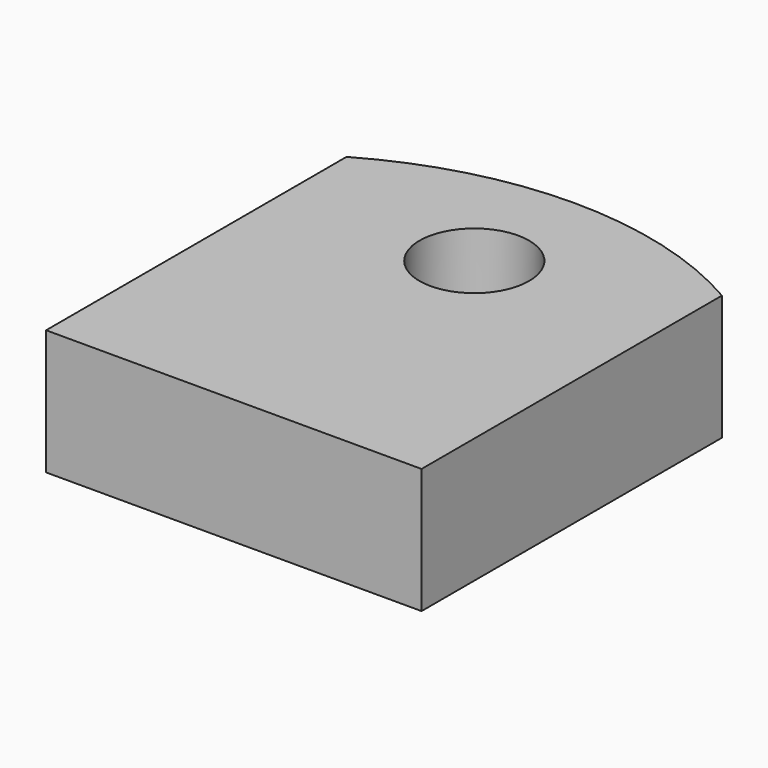
from build123d import *

# Parameters (mm, degrees)
F0_R     = 11.1125
F1_DEPTH = 25.4


with BuildPart() as f1:
    # F0 (on Top) → F1 (new body)
    with BuildSketch(Plane.XY):
        with BuildLine():
            Line((-73.586281, 76.2), (-73.586281, 0))
            Line((-73.586281, 0), (2.613719, 0))
            Line((2.613719, 0), (2.613719, 76.2))
            ThreePointArc((2.613719, 76.2), (-35.486281, 86.408864), (-73.586281, 76.2))
        make_face()
        with Locations((-35.486281, 61.008864)):
            Circle(F0_R, mode=Mode.SUBTRACT)
    extrude(amount=F1_DEPTH)


solid = f1.part
